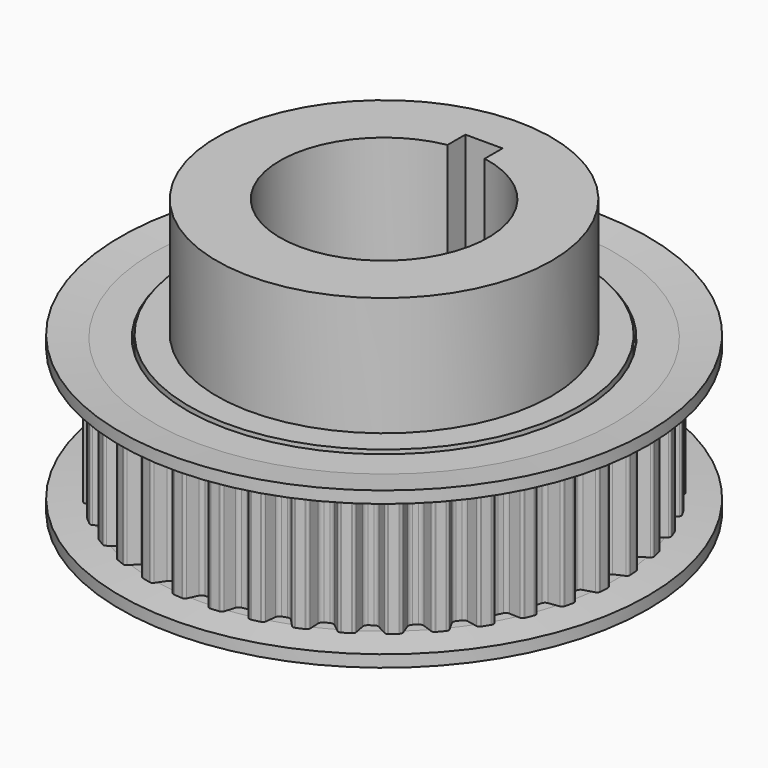
from build123d import *

# Parameters (mm, degrees)
SKETCH_R           = 31.62
PAD_DEPTH          = 17
SKETCH004_R        = 26.2
PAD001_DEPTH       = 2
SKETCH003_R        = 26.2
PAD002_DEPTH       = 2
SKETCH007_R        = 22.5
PAD003_DEPTH       = 16
POCKET_DEPTH       = 37
POCKET001_DEPTH    = 17
POLARPATTERN_COUNT = 40


with BuildPart() as revolution001:
    # Sketch006 → Revolution001 (revolve)
    with BuildSketch(Plane.XZ):
        Polygon((26.5, 18.6), (31, 18.6), (35.482876, 18.992201), (35.482876, 17.392201), (31, 17), (26.5, 17), align=None)
    revolve(axis=Axis((0, 0, 0), (0, 0, 1)))


with BuildPart() as polarpattern:
    # Sketch → Pad (new body)
    with BuildSketch(Plane.XY):
        Circle(SKETCH_R)
    extrude(amount=PAD_DEPTH)

    # Sketch004 → Pad001 (new body)
    with BuildSketch(Plane(origin=(0, 0, 0), x_dir=(1, 0, 0), z_dir=(0, 0, -1))):
        Circle(SKETCH004_R)
    extrude(amount=PAD001_DEPTH)

    # Sketch003 → Pad002 (new body)
    with BuildSketch(Plane.XY.offset(17)):
        Circle(SKETCH003_R)
    extrude(amount=PAD002_DEPTH)

    # Sketch007 → Pad003 (new body)
    with BuildSketch(Plane.XY.offset(19)):
        Circle(SKETCH007_R)
    extrude(amount=PAD003_DEPTH)

    # Sketch001 → Pocket (cut)
    with BuildSketch(Plane(origin=(0, 0, -2), x_dir=(1, 0, 0), z_dir=(0, 0, -1))):
        with BuildLine():
            Line((2.5, -13.774977), (2.5, -16.774977))
            Line((2.5, -16.774977), (-2.5, -16.774977))
            Line((-2.5, -16.774977), (-2.5, -13.774977))
            ThreePointArc((2.5, -13.774977), (0, 14), (-2.5, -13.774977))
        make_face()
    extrude(amount=-POCKET_DEPTH, mode=Mode.SUBTRACT)

    # Sketch002 → Pocket001 (cut)
    with BuildSketch(Plane(origin=(0, 0, 0), x_dir=(1, 0, 0), z_dir=(0, 0, -1))):
        with BuildLine():
            ThreePointArc((-1.48, 31.329047), (-1.627603, 31.497357), (-1.842523, 31.56))
            Line((-2.15, 31.56), (-1.842523, 31.56))
            Line((-2.15, 32.06), (-2.15, 31.56))
            Line((-2.15, 32.06), (2.15, 32.06))
            Line((2.15, 32.06), (2.15, 31.56))
            Line((1.842522, 31.56), (2.15, 31.56))
            ThreePointArc((1.842522, 31.56), (1.627603, 31.497356), (1.48, 31.329047))
            Line((1.48, 31.329047), (0.867916, 30.016429))
            ThreePointArc((0.324131, 29.67), (0.646511, 29.763965), (0.867916, 30.016429))
            Line((-0.324131, 29.67), (0.324131, 29.67))
            ThreePointArc((-0.867916, 30.016429), (-0.646511, 29.763965), (-0.324131, 29.67))
            Line((-1.48, 31.329047), (-0.867916, 30.016429))
        make_face()
    pocket001 = extrude(amount=-POCKET001_DEPTH, mode=Mode.SUBTRACT)

    # PolarPattern: Pocket001 ×40 about axis
    polarpattern_axis = Axis((0, 0, 0), (0, 0, -1))
    for i in range(1, POLARPATTERN_COUNT):
        add(pocket001.rotate(polarpattern_axis, i * 360 / POLARPATTERN_COUNT), mode=Mode.SUBTRACT)


with BuildPart() as fusion:
    # Sketch005 → Revolution (revolve)
    with BuildSketch(Plane.XZ):
        Polygon((26.5, 0), (31, 0), (35.482876, -0.392201), (35.482876, -1.992201), (31, -1.6), (26.5, -1.6), align=None)
    revolve(axis=Axis((0, 0, 0), (0, 0, 1)))

    # Fusion: union Revolution001, PolarPattern
    add(revolution001.part)
    add(polarpattern.part)


solid = fusion.part
